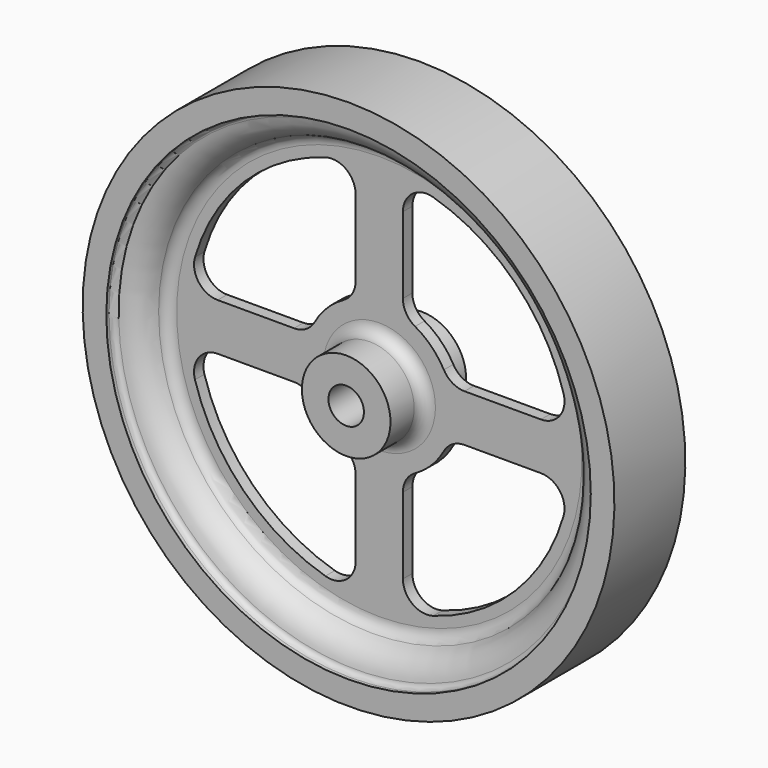
from build123d import *

# Parameters (mm, degrees)
F3_DEPTH = 25


with BuildPart() as f1:
    # F0 (on Right) → F1 (revolve)
    with BuildSketch(Plane.YZ):
        with BuildLine():
            Line((-8, 7.5), (-8, 3))
            Line((-8, 3), (8, 3))
            Line((8, 3), (8, 7.5))
            Line((8, 7.5), (3, 7.5))
            ThreePointArc((3, 7.5), (1.585786, 8.085786), (1, 9.5))
            Line((1, 9.5), (1, 34.291796))
            ThreePointArc((1, 34.291796), (1.396433, 35.487025), (2.428571, 36.208426))
            ThreePointArc((2.428571, 36.208426), (4.744995, 37.687144), (5.930066, 40.166667))
            ThreePointArc((5.930066, 40.166667), (6.270583, 40.763763), (6.91608, 41))
            Line((6.91608, 41), (7.5, 41))
            Line((7.5, 41), (7.5, 45))
            Line((7.5, 45), (-7.5, 45))
            Line((-7.5, 45), (-7.5, 41))
            Line((-7.5, 41), (-6.91608, 41))
            ThreePointArc((-6.91608, 41), (-6.270583, 40.763763), (-5.930066, 40.166667))
            ThreePointArc((-5.930066, 40.166667), (-4.744995, 37.687144), (-2.428571, 36.208426))
            ThreePointArc((-2.428571, 36.208426), (-1.396433, 35.487025), (-1, 34.291796))
            Line((-1, 34.291796), (-1, 9.5))
            ThreePointArc((-1, 9.5), (-1.585786, 8.085786), (-3, 7.5))
            Line((-3, 7.5), (-8, 7.5))
        make_face()
    revolve(axis=Axis((0, 0, 0), (0, 1, 0)))

    # F2 (on face) → F3 (cut)
    with BuildSketch(Plane.XZ.offset(1)):
        with BuildLine():
            ThreePointArc((-14.43087, 4), (-12.400793, 4.553438), (-10.932477, 6.060606))
            ThreePointArc((-10.932477, 6.060606), (-8.838835, 8.838835), (-6.060606, 10.932477))
            ThreePointArc((-6.060606, 10.932477), (-4.553438, 12.400793), (-4, 14.43087))
            Line((-4, 14.43087), (-4, 27.354159))
            ThreePointArc((-4, 27.354159), (-5.60117, 30.555036), (-9.122807, 31.193339))
            ThreePointArc((-9.122807, 31.193339), (-22.98097, 22.98097), (-31.193339, 9.122807))
            ThreePointArc((-31.193339, 9.122807), (-30.555036, 5.60117), (-27.354159, 4))
            Line((-27.354159, 4), (-14.43087, 4))
        make_face()
        with BuildLine():
            ThreePointArc((-4, -14.43087), (-4.553438, -12.400793), (-6.060606, -10.932477))
            ThreePointArc((-6.060606, -10.932477), (-8.838835, -8.838835), (-10.932477, -6.060606))
            ThreePointArc((-10.932477, -6.060606), (-12.400793, -4.553438), (-14.43087, -4))
            Line((-14.43087, -4), (-27.354159, -4))
            ThreePointArc((-27.354159, -4), (-30.555036, -5.60117), (-31.193339, -9.122807))
            ThreePointArc((-31.193339, -9.122807), (-22.98097, -22.98097), (-9.122807, -31.193339))
            ThreePointArc((-9.122807, -31.193339), (-5.60117, -30.555036), (-4, -27.354159))
            Line((-4, -27.354159), (-4, -14.43087))
        make_face()
        with BuildLine():
            ThreePointArc((14.43087, -4), (12.400793, -4.553438), (10.932477, -6.060606))
            ThreePointArc((10.932477, -6.060606), (8.838835, -8.838835), (6.060606, -10.932477))
            ThreePointArc((6.060606, -10.932477), (4.553438, -12.400793), (4, -14.43087))
            Line((4, -14.43087), (4, -27.354159))
            ThreePointArc((4, -27.354159), (5.60117, -30.555036), (9.122807, -31.193339))
            ThreePointArc((9.122807, -31.193339), (22.98097, -22.98097), (31.193339, -9.122807))
            ThreePointArc((31.193339, -9.122807), (30.555036, -5.60117), (27.354159, -4))
            Line((27.354159, -4), (14.43087, -4))
        make_face()
        with BuildLine():
            ThreePointArc((4, 14.43087), (4.553438, 12.400793), (6.060606, 10.932477))
            ThreePointArc((6.060606, 10.932477), (8.838835, 8.838835), (10.932477, 6.060606))
            ThreePointArc((10.932477, 6.060606), (12.400793, 4.553438), (14.43087, 4))
            Line((14.43087, 4), (27.354159, 4))
            ThreePointArc((27.354159, 4), (30.555036, 5.60117), (31.193339, 9.122807))
            ThreePointArc((31.193339, 9.122807), (22.98097, 22.98097), (9.122807, 31.193339))
            ThreePointArc((9.122807, 31.193339), (5.60117, 30.555036), (4, 27.354159))
            Line((4, 27.354159), (4, 14.43087))
        make_face()
    extrude(amount=-F3_DEPTH, mode=Mode.SUBTRACT)


solid = f1.part
